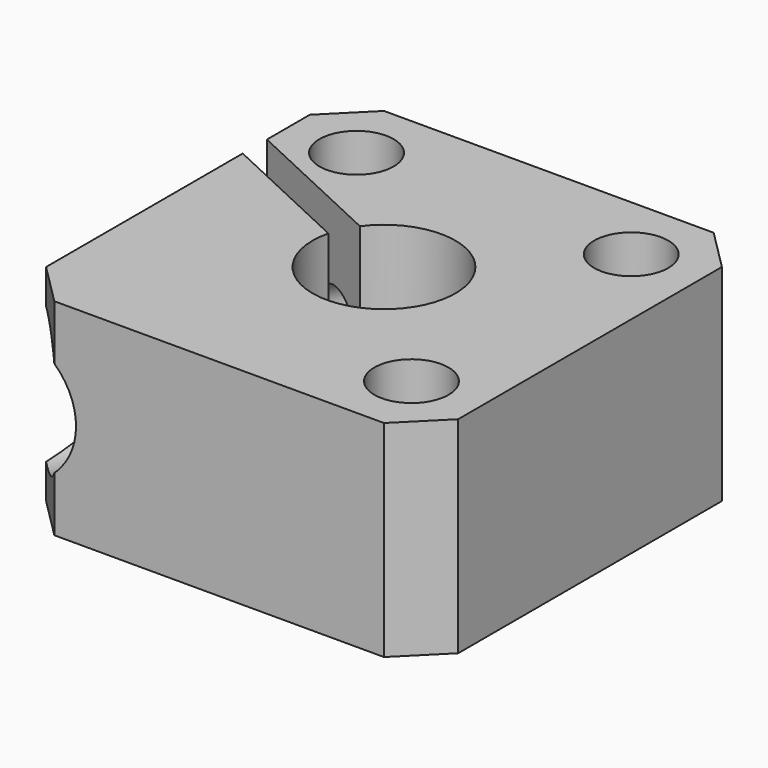
from build123d import *

# Parameters (mm, degrees)
F0_W      = 30
F0_H      = 30
F0_R      = 2.7
F0_R_2    = 5.2
F1_DEPTH  = 15
F2_SIZE   = 3
F4_DEPTH  = 25
F5_R      = 2.2
F6_DEPTH  = 35
F8_R      = 5
F9_DEPTH  = 25
F11_R     = 5
F12_DEPTH = 25


with BuildPart() as f1:
    # F0 (on Top) → F1 (new body)
    with BuildSketch(Plane.XY):
        Rectangle(F0_W, F0_H)
        with Locations((10, -10)):
            Circle(F0_R, mode=Mode.SUBTRACT)
        with Locations((-10, 10)):
            Circle(F0_R, mode=Mode.SUBTRACT)
        Circle(F0_R_2, mode=Mode.SUBTRACT)
        with Locations((10, 10)):
            Circle(F0_R, mode=Mode.SUBTRACT)
    extrude(amount=F1_DEPTH)

    # F2
    f2_edges = [f1.edges().sort_by_distance(p)[0] for p in [
        (15, 15, 7.5),
        (15, -15, 7.5),
        (-15, -15, 7.5),
        (-15, 15, 7.5),
    ]]
    chamfer(f2_edges, length=F2_SIZE)

    # F3 (on face) → F4 (cut)
    with BuildSketch(Plane.XY.offset(15)):
        Polygon((-29.3442261462, 14.7868152936), (-29.7668444079, 13.8805075065), (-30.1894626697, 12.9741997195), (-3.0002290586, 0.2956518673), (-2.1549925351, 2.1082674413), align=None)
    extrude(amount=-F4_DEPTH, mode=Mode.SUBTRACT)

    # F5 (on face) → F6 (cut, symmetric)
    with BuildSketch(Plane(origin=(0.4226182617, 0.906307787, 0), x_dir=(0.906307787, -0.4226182617, 0), z_dir=(-0.4226182617, -0.906307787, 0))):
        with Locations((-8.1029403289, 7.5)):
            Circle(F5_R)
    extrude(amount=F6_DEPTH, both=True, mode=Mode.SUBTRACT)

    # F8 (on offset) → F9 (cut)
    with BuildSketch(Plane(origin=(4.6488008791, 9.9693856574, 0), x_dir=(0.906307787, -0.4226182617, 0), z_dir=(-0.4226182617, -0.906307787, 0))):
        with Locations((-8.1029403289, 7.5)):
            Circle(F8_R)
    extrude(amount=-F9_DEPTH, mode=Mode.SUBTRACT)

    # F11 (on offset) → F12 (cut)
    with BuildSketch(Plane(origin=(-5.0714191409, -10.8756934444, 0), x_dir=(0.906307787, -0.4226182617, 0), z_dir=(-0.4226182617, -0.906307787, 0))):
        with Locations((-8.1029403289, 7.5)):
            Circle(F11_R)
    extrude(amount=F12_DEPTH, mode=Mode.SUBTRACT)


solid = f1.part
